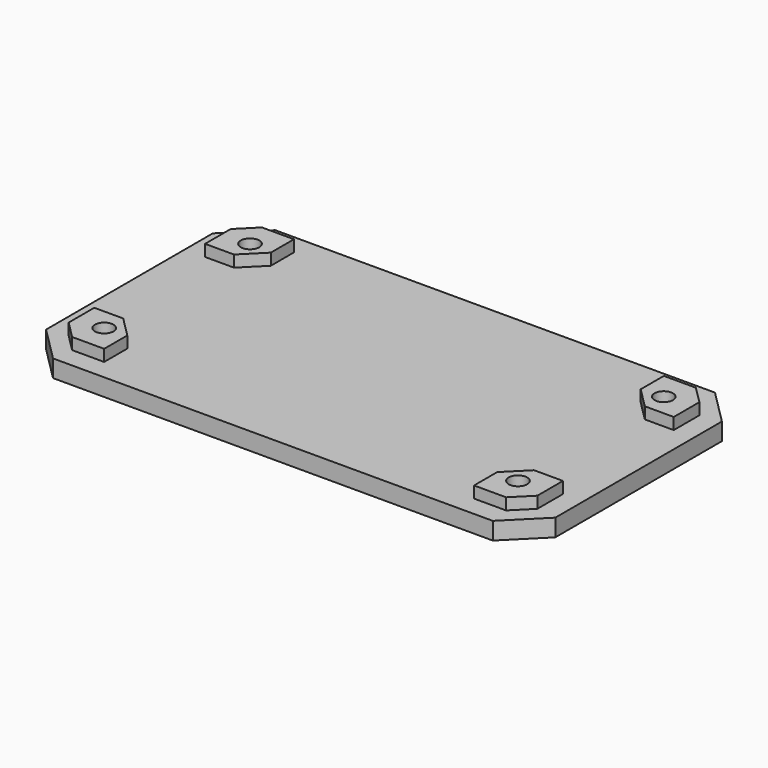
from build123d import *

# Parameters (mm, degrees)
SKETCH012_W                   = 88
SKETCH012_H                   = 48
PAD005_DEPTH                  = 4
SKETCH013_W                   = 81
SKETCH013_H                   = 41
PAD006_DEPTH                  = 2
POCKET007_DEPTH               = 2
POCKET007_MIRRORED009_2_DEPTH = 2
POCKET008_DEPTH               = 2
SKETCH016_R                   = 1.6
POCKET009_DEPTH               = 206.8392433701
SKETCH016_MIRRORED011_2_R     = 1.6
POCKET009_MIRRORED011_2_DEPTH = 206.8392433701
SKETCH017_R                   = 4
POCKET010_DEPTH               = 3
SKETCH017_MIRRORED013_2_R     = 4
POCKET010_MIRRORED013_2_DEPTH = 3
SKETCH018_W                   = 100.342552
SKETCH018_H                   = 57.696968
POCKET011_DEPTH               = 1
POCKET012_DEPTH               = 205.7296725906
POCKET012_MIRRORED015_2_DEPTH = 205.7296725906
POCKET008_MIRRORED017_2_DEPTH = 2


with BuildPart() as part:
    # Sketch012 → Pad005 (new body)
    with BuildSketch(Plane.XY):
        Rectangle(SKETCH012_W, SKETCH012_H)
    extrude(amount=PAD005_DEPTH)

    # Sketch013 (on Face6 of Pad005) → Pad006 (join)
    with BuildSketch(Plane.XY.offset(4)):
        Rectangle(SKETCH013_W, SKETCH013_H)
    extrude(amount=PAD006_DEPTH)

    # Sketch014 (on Face11 of Pad006) → Pocket007 (cut)
    with BuildSketch(Plane.XY.offset(6)):
        Polygon((0, 0), (-40.5, 0), (-40.5, 11.9644660941), (-35.5, 11.9644660941), (-31.964466094, 15.5), (-31.964466094, 20.5), (0, 20.5), align=None)
    pocket007 = extrude(amount=-POCKET007_DEPTH, mode=Mode.SUBTRACT)

    # Sketch014 Mirrored009 2 → Pocket007 Mirrored009 2 (cut)
    with BuildSketch(Plane(origin=(0, 0, 6), x_dir=(-1, 0, 0), z_dir=(0, 0, -1))):
        Polygon((0, 0), (-40.5, 0), (-40.5, 11.9644660941), (-35.5, 11.9644660941), (-31.964466094, 15.5), (-31.964466094, 20.5), (0, 20.5), align=None)
    pocket007_mirrored009_2 = extrude(amount=POCKET007_MIRRORED009_2_DEPTH, mode=Mode.SUBTRACT)

    # Mirrored010: Pocket007, Pocket007 Mirrored009 2 across Sketch014 H_Axis
    add(pocket007.mirror(Plane(origin=(0, 0, 6), x_dir=(0, 0, 1), z_dir=(0, 1, 0))), mode=Mode.SUBTRACT)
    add(pocket007_mirrored009_2.mirror(Plane(origin=(0, 0, 6), x_dir=(0, 0, 1), z_dir=(0, 1, 0))), mode=Mode.SUBTRACT)

    # Sketch015 (on Face20 of MultiTransform004) → Pocket008 (cut)
    with BuildSketch(Plane.XY.offset(6)):
        Polygon((-40.5, 17.5), (-40.5, 20.5), (-37.5, 20.5), align=None)
    pocket008 = extrude(amount=-POCKET008_DEPTH, mode=Mode.SUBTRACT)

    # Sketch016 (on Face4 of Pocket008) → Pocket009 (cut, through all)
    with BuildSketch(Plane(origin=(0, 0, 0), x_dir=(1, 0, 0), z_dir=(0, 0, -1))):
        with Locations((-35.75, 15.75)):
            Circle(SKETCH016_R)
    pocket009 = extrude(amount=-POCKET009_DEPTH, mode=Mode.SUBTRACT)

    # Sketch016 Mirrored011 2 → Pocket009 Mirrored011 2 (cut, through all)
    with BuildSketch(Plane(origin=(0, 0, 0), x_dir=(-1, 0, 0), z_dir=(0, 0, 1))):
        with Locations((-35.75, 15.75)):
            Circle(SKETCH016_MIRRORED011_2_R)
    pocket009_mirrored011_2 = extrude(amount=POCKET009_MIRRORED011_2_DEPTH, mode=Mode.SUBTRACT)

    # Mirrored012: Pocket009, Pocket009 Mirrored011 2 across Sketch016 H_Axis
    add(pocket009.mirror(Plane(origin=(0, 0, 0), x_dir=(0, 0, -1), z_dir=(0, -1, 0))), mode=Mode.SUBTRACT)
    add(pocket009_mirrored011_2.mirror(Plane(origin=(0, 0, 0), x_dir=(0, 0, -1), z_dir=(0, -1, 0))), mode=Mode.SUBTRACT)

    # Sketch017 (on Face4 of MultiTransform005) → Pocket010 (cut)
    with BuildSketch(Plane(origin=(0, 0, 0), x_dir=(1, 0, 0), z_dir=(0, 0, -1))):
        with Locations((-35.75, 15.75)):
            Circle(SKETCH017_R)
    pocket010 = extrude(amount=-POCKET010_DEPTH, mode=Mode.SUBTRACT)

    # Sketch017 Mirrored013 2 → Pocket010 Mirrored013 2 (cut)
    with BuildSketch(Plane(origin=(0, 0, 0), x_dir=(-1, 0, 0), z_dir=(0, 0, 1))):
        with Locations((-35.75, 15.75)):
            Circle(SKETCH017_MIRRORED013_2_R)
    pocket010_mirrored013_2 = extrude(amount=POCKET010_MIRRORED013_2_DEPTH, mode=Mode.SUBTRACT)

    # Mirrored014: Pocket010, Pocket010 Mirrored013 2 across Sketch017 H_Axis
    add(pocket010.mirror(Plane(origin=(0, 0, 0), x_dir=(0, 0, -1), z_dir=(0, -1, 0))), mode=Mode.SUBTRACT)
    add(pocket010_mirrored013_2.mirror(Plane(origin=(0, 0, 0), x_dir=(0, 0, -1), z_dir=(0, -1, 0))), mode=Mode.SUBTRACT)

    # Sketch018 (on Face4 of MultiTransform006) → Pocket011 (cut)
    with BuildSketch(Plane(origin=(0, 0, 0), x_dir=(1, 0, 0), z_dir=(0, 0, -1))):
        with Locations((-0.467655, 0.399981)):
            Rectangle(SKETCH018_W, SKETCH018_H)
    extrude(amount=-POCKET011_DEPTH, mode=Mode.SUBTRACT)

    # Sketch019 (on Face2 of Pocket011) → Pocket012 (cut, through all)
    with BuildSketch(Plane(origin=(0, 0, 1), x_dir=(1, 0, 0), z_dir=(0, 0, -1))):
        Polygon((-44, 18), (-38, 24), (-44, 24), align=None)
    pocket012 = extrude(amount=-POCKET012_DEPTH, mode=Mode.SUBTRACT)

    # Sketch019 Mirrored015 2 → Pocket012 Mirrored015 2 (cut, through all)
    with BuildSketch(Plane(origin=(0, 0, 1), x_dir=(-1, 0, 0), z_dir=(0, 0, 1))):
        Polygon((-44, 18), (-38, 24), (-44, 24), align=None)
    pocket012_mirrored015_2 = extrude(amount=POCKET012_MIRRORED015_2_DEPTH, mode=Mode.SUBTRACT)

    # Mirrored016: Pocket012, Pocket012 Mirrored015 2 across Sketch019 H_Axis
    add(pocket012.mirror(Plane(origin=(0, 0, 1), x_dir=(0, 0, -1), z_dir=(0, -1, 0))), mode=Mode.SUBTRACT)
    add(pocket012_mirrored015_2.mirror(Plane(origin=(0, 0, 1), x_dir=(0, 0, -1), z_dir=(0, -1, 0))), mode=Mode.SUBTRACT)

    # Sketch015 Mirrored017 2 → Pocket008 Mirrored017 2 (cut)
    with BuildSketch(Plane(origin=(0, 0, 6), x_dir=(-1, 0, 0), z_dir=(0, 0, -1))):
        Polygon((-40.5, 17.5), (-40.5, 20.5), (-37.5, 20.5), align=None)
    pocket008_mirrored017_2 = extrude(amount=POCKET008_MIRRORED017_2_DEPTH, mode=Mode.SUBTRACT)

    # Mirrored018: Pocket008, Pocket008 Mirrored017 2 across Sketch015 H_Axis
    add(pocket008.mirror(Plane(origin=(0, 0, 6), x_dir=(0, 0, 1), z_dir=(0, 1, 0))), mode=Mode.SUBTRACT)
    add(pocket008_mirrored017_2.mirror(Plane(origin=(0, 0, 6), x_dir=(0, 0, 1), z_dir=(0, 1, 0))), mode=Mode.SUBTRACT)


with BuildPart() as part_1:
    # Body001 placement: moved
    add(part.part.moved(Location((0, 0, -2.6))))


solid = part_1.part
